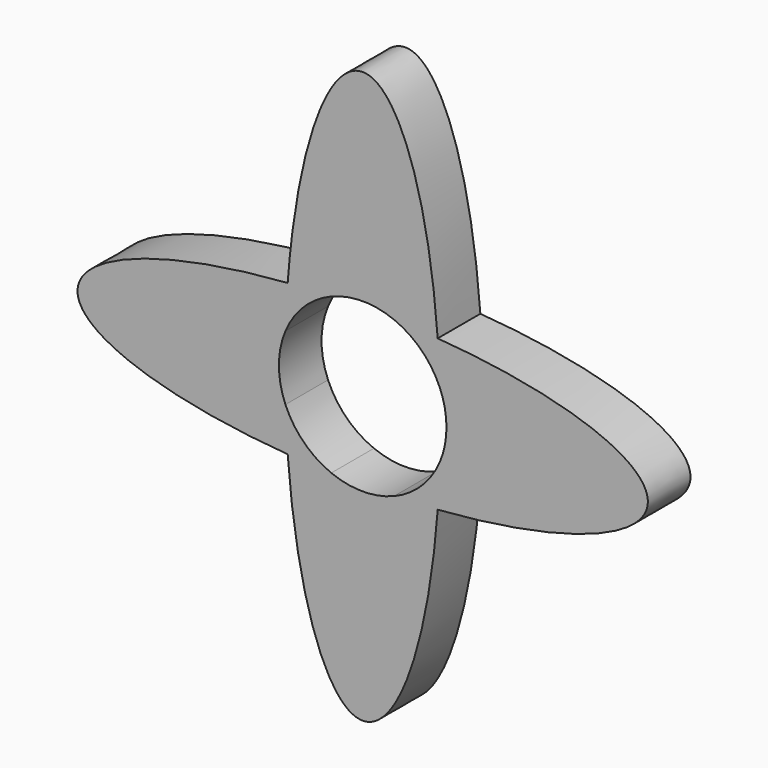
from build123d import *

# Parameters (mm, degrees)
F1_DEPTH = 7


with BuildPart() as f1:
    # F0 (on Front) → F1 (new body)
    with BuildSketch(Plane.XZ):
        with BuildLine():
            ThreePointArc((10.1453197701, 4.2511747508), (10.7842134037, 2.168119292), (11, 0))
            ThreePointArc((11, 0), (10.7842134037, -2.168119292), (10.1453197701, -4.2511747508))
            add(Edge.make_bspline(
                [(9.8487678325, -9.8993528373), (10.0562281019, -7.1171506305), (10.1453197701, -4.2511747508)],
                knots=[4.4451668144, 4.4451668144, 4.4451668144, 4.5987496264, 4.5987496264, 4.5987496264], degree=2, weights=[1, 0.9970529886, 1]))
            add(Edge.make_bspline(
                [(9.8487678325, -9.8993528373), (37.4401472509, -7.8376344068), (37.4401472509, 0)],
                knots=[4.978574958, 4.978574958, 4.978574958, 6.2831853072, 6.2831853072, 6.2831853072], degree=2, weights=[1, 0.7946866243, 1]))
            add(Edge.make_bspline(
                [(37.4401472509, 0), (37.4401472509, 7.8376344068), (9.8487678325, 9.8993528373)],
                knots=[0, 0, 0, 1.3046103492, 1.3046103492, 1.3046103492], degree=2, weights=[1, 0.7946866243, 1]))
            add(Edge.make_bspline(
                [(10.1453197701, 4.2511747508), (10.0562281019, 7.1171506305), (9.8487678325, 9.8993528373)],
                knots=[4.8260283344, 4.8260283344, 4.8260283344, 4.9796111463, 4.9796111463, 4.9796111463], degree=2, weights=[1, 0.9970529886, 1]))
        make_face()
        with BuildLine():
            ThreePointArc((4.1223687661, 10.1983369113), (7.72877212, 7.8272652643), (10.1453197701, 4.2511747508))
            add(Edge.make_bspline(
                [(10.1453197701, 4.2511747508), (10.0562281019, 7.1171506305), (9.8487678325, 9.8993528373)],
                knots=[4.8260283344, 4.8260283344, 4.8260283344, 4.9796111463, 4.9796111463, 4.9796111463], degree=2, weights=[1, 0.9970529886, 1]))
            add(Edge.make_bspline(
                [(9.8487678325, 9.8993528373), (7.0281628, 10.1101177031), (4.1223687661, 10.1983369113)],
                knots=[1.3046103492, 1.3046103492, 1.3046103492, 1.4604670613, 1.4604670613, 1.4604670613], degree=2, weights=[1, 0.996965122, 1]))
        make_face()
        with BuildLine():
            add(Edge.make_bspline(
                [(9.8487678325, -9.8993528373), (10.0562281019, -7.1171506305), (10.1453197701, -4.2511747508)],
                knots=[4.4451668144, 4.4451668144, 4.4451668144, 4.5987496264, 4.5987496264, 4.5987496264], degree=2, weights=[1, 0.9970529886, 1]))
            ThreePointArc((10.1453197701, -4.2511747508), (7.72877212, -7.8272652643), (4.1223687661, -10.1983369113))
            add(Edge.make_bspline(
                [(4.1223687661, -10.1983369113), (7.0281628, -10.1101177031), (9.8487678325, -9.8993528373)],
                knots=[4.8227182459, 4.8227182459, 4.8227182459, 4.978574958, 4.978574958, 4.978574958], degree=2, weights=[1, 0.996965122, 1]))
        make_face()
        with BuildLine():
            ThreePointArc((-4.1223687661, 10.1983369113), (0, 11), (4.1223687661, 10.1983369113))
            add(Edge.make_bspline(
                [(9.8487678325, 9.8993528373), (7.0281628, 10.1101177031), (4.1223687661, 10.1983369113)],
                knots=[1.3046103492, 1.3046103492, 1.3046103492, 1.4604670613, 1.4604670613, 1.4604670613], degree=2, weights=[1, 0.996965122, 1]))
            add(Edge.make_bspline(
                [(9.8487678325, 9.8993528373), (7.7914186779, 37.4899916351), (0, 37.4899916351)],
                knots=[4.9796111463, 4.9796111463, 4.9796111463, 6.2831853072, 6.2831853072, 6.2831853072], degree=2, weights=[1, 0.7950010111, 1]))
            add(Edge.make_bspline(
                [(0, 37.4899916351), (-7.7914186779, 37.4899916351), (-9.8487678325, 9.8993528373)],
                knots=[0, 0, 0, 1.3035741608, 1.3035741608, 1.3035741608], degree=2, weights=[1, 0.7950010111, 1]))
            add(Edge.make_bspline(
                [(-4.1223687661, 10.1983369113), (-7.0281628, 10.1101177031), (-9.8487678325, 9.8993528373)],
                knots=[1.6811255923, 1.6811255923, 1.6811255923, 1.8369823044, 1.8369823044, 1.8369823044], degree=2, weights=[1, 0.996965122, 1]))
        make_face()
        with BuildLine():
            add(Edge.make_bspline(
                [(4.1223687661, -10.1983369113), (7.0281628, -10.1101177031), (9.8487678325, -9.8993528373)],
                knots=[4.8227182459, 4.8227182459, 4.8227182459, 4.978574958, 4.978574958, 4.978574958], degree=2, weights=[1, 0.996965122, 1]))
            ThreePointArc((4.1223687661, -10.1983369113), (0, -11), (-4.1223687661, -10.1983369113))
            add(Edge.make_bspline(
                [(-9.8487678325, -9.8993528373), (-7.0281628, -10.1101177031), (-4.1223687661, -10.1983369113)],
                knots=[4.4462030028, 4.4462030028, 4.4462030028, 4.6020597149, 4.6020597149, 4.6020597149], degree=2, weights=[1, 0.996965122, 1]))
            add(Edge.make_bspline(
                [(-9.8487678325, -9.8993528373), (0, -141.9789248751), (9.8487678325, -9.8993528373)],
                knots=[1.8380184927, 1.8380184927, 1.8380184927, 4.4451668144, 4.4451668144, 4.4451668144], degree=2, weights=[1, 0.2640532154, 1]))
        make_face()
        with BuildLine():
            ThreePointArc((-10.1453197701, 4.2511747508), (-7.72877212, 7.8272652643), (-4.1223687661, 10.1983369113))
            add(Edge.make_bspline(
                [(-4.1223687661, 10.1983369113), (-7.0281628, 10.1101177031), (-9.8487678325, 9.8993528373)],
                knots=[1.6811255923, 1.6811255923, 1.6811255923, 1.8369823044, 1.8369823044, 1.8369823044], degree=2, weights=[1, 0.996965122, 1]))
            add(Edge.make_bspline(
                [(-9.8487678325, 9.8993528373), (-10.0562281019, 7.1171506305), (-10.1453197701, 4.2511747508)],
                knots=[1.3035741608, 1.3035741608, 1.3035741608, 1.4571569728, 1.4571569728, 1.4571569728], degree=2, weights=[1, 0.9970529886, 1]))
        make_face()
        with BuildLine():
            add(Edge.make_bspline(
                [(-9.8487678325, -9.8993528373), (-7.0281628, -10.1101177031), (-4.1223687661, -10.1983369113)],
                knots=[4.4462030028, 4.4462030028, 4.4462030028, 4.6020597149, 4.6020597149, 4.6020597149], degree=2, weights=[1, 0.996965122, 1]))
            ThreePointArc((-4.1223687661, -10.1983369113), (-7.72877212, -7.8272652643), (-10.1453197701, -4.2511747508))
            add(Edge.make_bspline(
                [(-10.1453197701, -4.2511747508), (-10.0562281019, -7.1171506305), (-9.8487678325, -9.8993528373)],
                knots=[1.6844356808, 1.6844356808, 1.6844356808, 1.8380184927, 1.8380184927, 1.8380184927], degree=2, weights=[1, 0.9970529886, 1]))
        make_face()
        with BuildLine():
            add(Edge.make_bspline(
                [(-9.8487678325, 9.8993528373), (-142.3289339352, 0), (-9.8487678325, -9.8993528373)],
                knots=[1.8369823044, 1.8369823044, 1.8369823044, 4.4462030028, 4.4462030028, 4.4462030028], degree=2, weights=[1, 0.2630536618, 1]))
            add(Edge.make_bspline(
                [(-10.1453197701, -4.2511747508), (-10.0562281019, -7.1171506305), (-9.8487678325, -9.8993528373)],
                knots=[1.6844356808, 1.6844356808, 1.6844356808, 1.8380184927, 1.8380184927, 1.8380184927], degree=2, weights=[1, 0.9970529886, 1]))
            ThreePointArc((-10.1453197701, -4.2511747508), (-11, 0), (-10.1453197701, 4.2511747508))
            add(Edge.make_bspline(
                [(-9.8487678325, 9.8993528373), (-10.0562281019, 7.1171506305), (-10.1453197701, 4.2511747508)],
                knots=[1.3035741608, 1.3035741608, 1.3035741608, 1.4571569728, 1.4571569728, 1.4571569728], degree=2, weights=[1, 0.9970529886, 1]))
        make_face()
    extrude(amount=F1_DEPTH)


solid = f1.part
